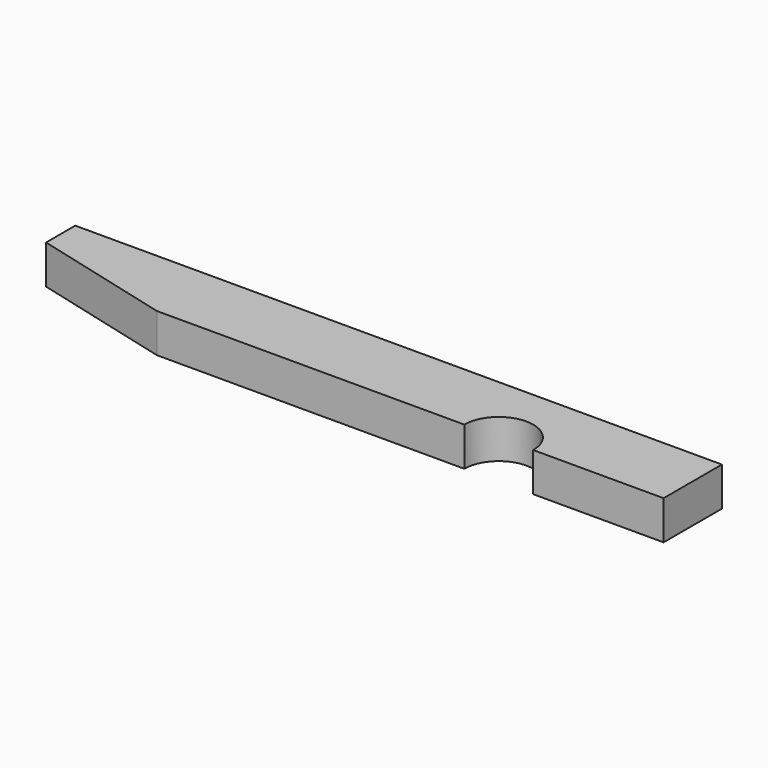
from build123d import *

# Parameters (mm, degrees)
F1_DEPTH = 5.08


with BuildPart() as f1:
    # F0 (on Top) → F1 (new body)
    with BuildSketch(Plane.XY):
        with BuildLine():
            Line((-17.206924, 4.943109), (-47.369424, 4.943109))
            Line((-47.369424, 4.943109), (-47.369424, 0.180609))
            Line((-47.369424, 0.180609), (-29.087516, -4.581891))
            Line((-29.087516, -4.581891), (11.064883, -4.581891))
            ThreePointArc((11.064883, -4.581891), (15.564746, -0.082027), (20.064609, -4.581891))
            Line((20.064609, -4.581891), (37.086151, -4.581891))
            Line((37.086151, -4.581891), (37.086151, 4.943109))
            Line((37.086151, 4.943109), (19.306151, 4.943109))
            Line((19.306151, 4.943109), (12.955576, 4.943109))
            Line((12.955576, 4.943109), (-17.206924, 4.943109))
        make_face()
    extrude(amount=F1_DEPTH)


solid = f1.part
